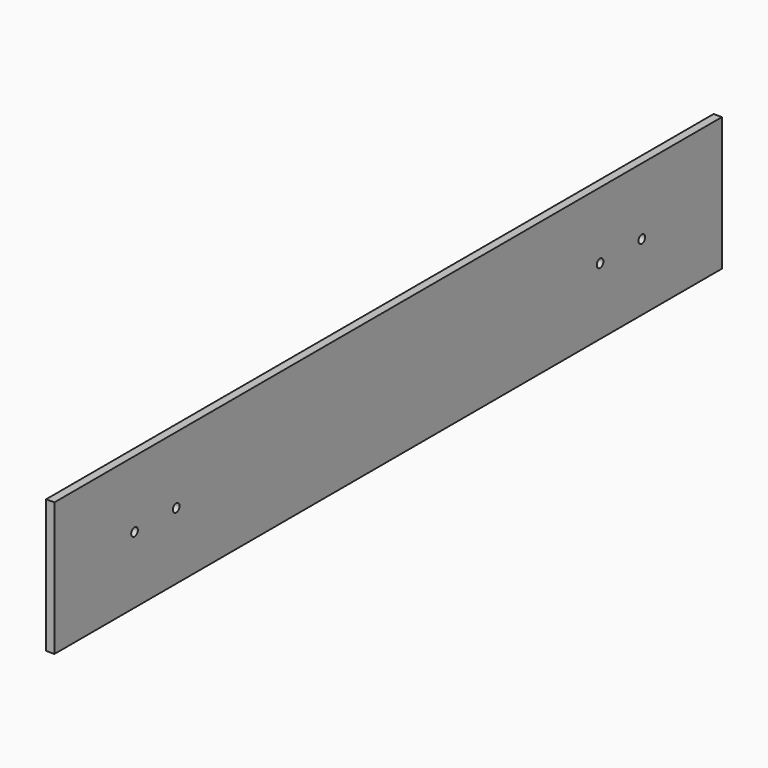
from build123d import *

# Parameters (mm, degrees)
F1_DEPTH = 3.175


with BuildPart() as f1:
    # F0 (on Right) → F1 (new body, symmetric)
    with BuildSketch(Plane.YZ):
        with BuildLine():
            Line((317.5, 0), (317.5, 50.8))
            Line((317.5, 50.8), (-317.5, 50.8))
            Line((-317.5, 50.8), (-317.5, 0))
            Line((-317.5, 0), (-244.475, 0))
            ThreePointArc((-244.475, 0), (-241.3, 3.175), (-238.125, 0))
            Line((-238.125, 0), (-204.8002, 0))
            ThreePointArc((-204.8002, 0), (-201.6252, 3.175), (-198.4502, 0))
            Line((-198.4502, 0), (0, 0))
            Line((0, 0), (198.4375, 0))
            ThreePointArc((198.4375, 0), (201.6125, 3.175), (204.7875, 0))
            Line((204.7875, 0), (238.125, 0))
            ThreePointArc((238.125, 0), (241.3, 3.175), (244.475, 0))
            Line((244.475, 0), (317.5, 0))
        make_face()
        with BuildLine():
            Line((317.5, -50.8), (317.5, 0))
            Line((317.5, 0), (244.475, 0))
            ThreePointArc((244.475, 0), (241.3, -3.175), (238.125, 0))
            Line((238.125, 0), (204.7875, 0))
            ThreePointArc((204.7875, 0), (201.6125, -3.175), (198.4375, 0))
            Line((198.4375, 0), (0, 0))
            Line((0, 0), (-198.4502, 0))
            ThreePointArc((-198.4502, 0), (-201.6252, -3.175), (-204.8002, 0))
            Line((-204.8002, 0), (-238.125, 0))
            ThreePointArc((-238.125, 0), (-241.3, -3.175), (-244.475, 0))
            Line((-244.475, 0), (-317.5, 0))
            Line((-317.5, 0), (-317.5, -50.8))
            Line((-317.5, -50.8), (317.5, -50.8))
        make_face()
    extrude(amount=F1_DEPTH, both=True)


solid = f1.part
